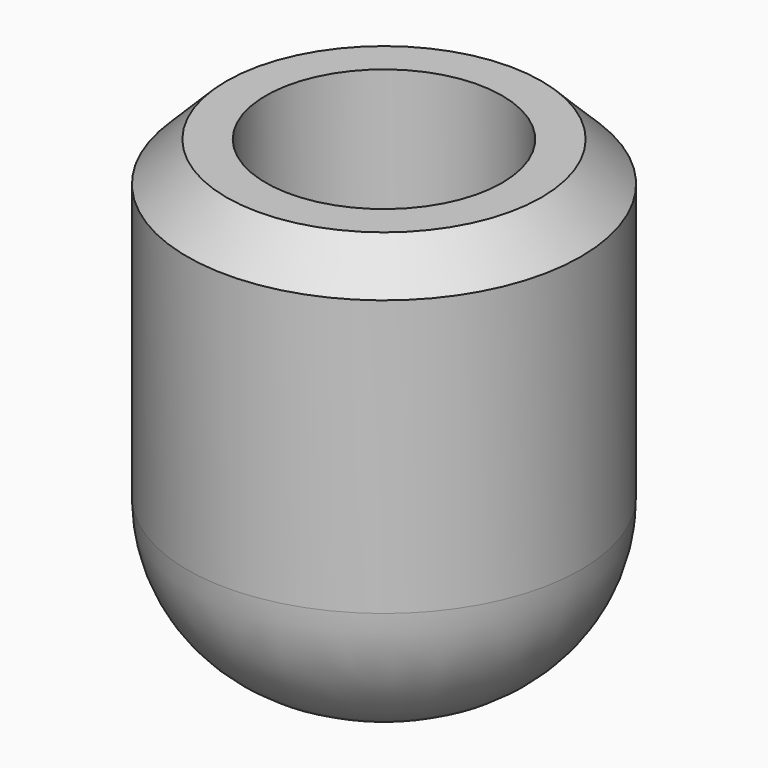
from build123d import *

# Parameters (mm, degrees)
SKETCH_R     = 5
PAD_DEPTH    = 12
SKETCH001_R  = 3
POCKET_DEPTH = 10
FILLET_R     = 4
CHAMFER_SIZE = 1
FILLET001_R  = 2


with BuildPart() as part:
    # Sketch → Pad (new body)
    with BuildSketch(Plane.XY):
        Circle(SKETCH_R)
    extrude(amount=PAD_DEPTH)

    # Sketch001 (on Face3 of Pad) → Pocket (cut)
    with BuildSketch(Plane.XY.offset(12)):
        Circle(SKETCH001_R)
    extrude(amount=-POCKET_DEPTH, mode=Mode.SUBTRACT)

    # Fillet
    fillet_edges = [part.edges().sort_by_distance(p)[0] for p in [
        (-5, 0, 0),
    ]]
    fillet(fillet_edges, radius=FILLET_R)

    # Chamfer
    chamfer_edges = [part.edges().sort_by_distance(p)[0] for p in [
        (-5, 0, 12),
    ]]
    chamfer(chamfer_edges, length=CHAMFER_SIZE)

    # Fillet001
    fillet001_edges = [part.edges().sort_by_distance(p)[0] for p in [
        (-3, 0, 2),
    ]]
    fillet(fillet001_edges, radius=FILLET001_R)


solid = part.part
